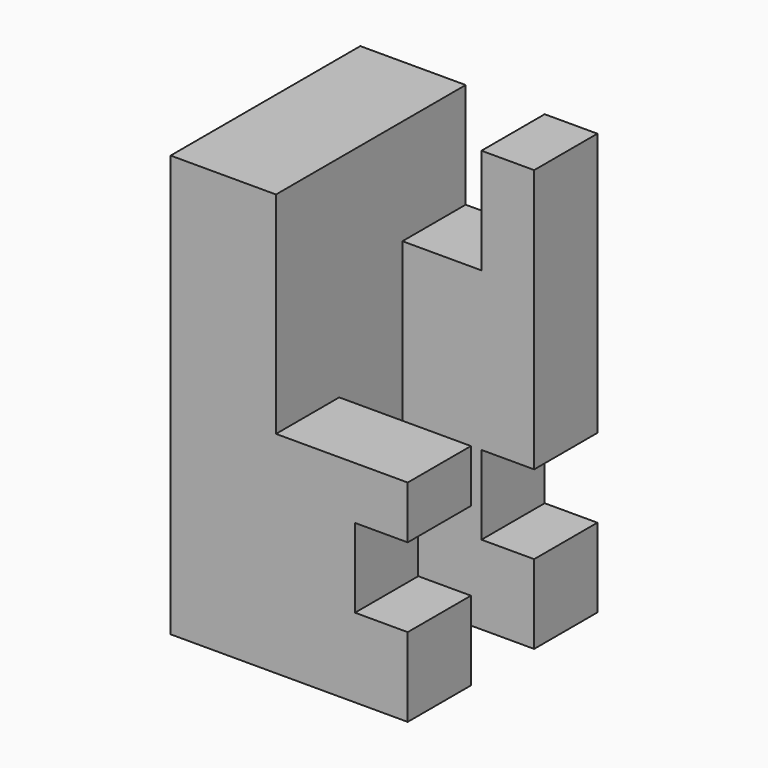
from build123d import *

# Parameters (mm, degrees)
F0_W     = 45
F0_H     = 45
F1_DEPTH = 80
F4_DEPTH = 80
F3_W     = 15
F3_H     = 20
F3_W_2   = 10
F3_H_2   = 15
F5_DEPTH = 45
F6_W     = 25
F6_H     = 15
F7_DEPTH = 40
F8_DEPTH = 40


with BuildPart() as f1:
    # F0 (on Top) → F1 (new body)
    with BuildSketch(Plane.XY):
        Rectangle(F0_W, F0_H)
    extrude(amount=F1_DEPTH)

    # F2 (on face) → F4 (cut)
    with BuildSketch(Plane.XY.offset(80)):
        Polygon((22.5, -7.5), (22.5, 7.5), (12.5, 7.5), (-2.5, 7.5), (-2.5, -7.5), (12.5, -7.5), align=None)
    extrude(amount=-F4_DEPTH, mode=Mode.SUBTRACT)

    # F3 (on face) → F5 (cut)
    with BuildSketch(Plane.XZ.offset(22.5)):
        with Locations((5, 70)):
            Rectangle(F3_W, F3_H)
        with Locations((17.5, 22.5)):
            Rectangle(F3_W_2, F3_H_2)
    extrude(amount=-F5_DEPTH, mode=Mode.SUBTRACT)

    # F6 (on face) → F7 (cut)
    with BuildSketch(Plane.XY.offset(80)):
        with Locations((10, -15)):
            Rectangle(F6_W, F6_H)
    extrude(amount=-F7_DEPTH, mode=Mode.SUBTRACT)

    # F6 (on face) → F8 (cut)
    with BuildSketch(Plane.XY.offset(80)):
        with Locations((10, -15)):
            Rectangle(F6_W, F6_H)
    extrude(amount=-F8_DEPTH, mode=Mode.SUBTRACT)


solid = f1.part
